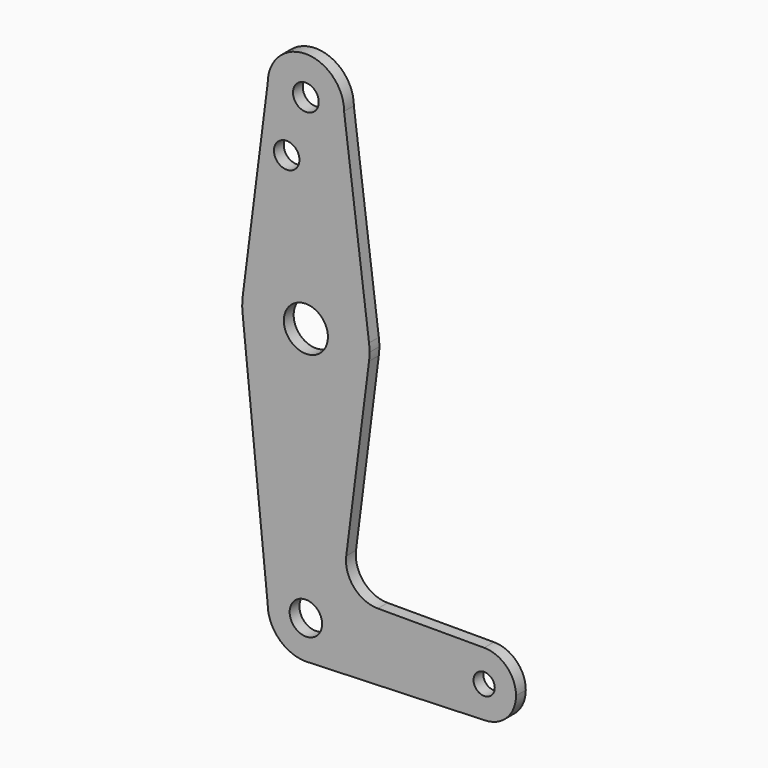
from build123d import *

# Parameters (mm, degrees)
F0_R     = 3.21148
F0_R_2   = 3.175
F0_R_3   = 5.490597
F0_R_4   = 4.051026
F0_R_5   = 2.645556
F1_DEPTH = 3.048


with BuildPart() as f1:
    # F0 (on Front) → F1 (new body)
    with BuildSketch(Plane.XZ):
        with BuildLine():
            ThreePointArc((-9.525, 114.3), (0, 104.775), (9.525, 114.3))
            ThreePointArc((9.525, 114.3), (0, 123.825), (-9.525, 114.3))
        make_face()
        with Locations((0, 114.3)):
            Circle(F0_R, mode=Mode.SUBTRACT)
        with BuildLine():
            Line((15.747457, 65.508289), (9.525, 114.3))
            ThreePointArc((9.525, 114.3), (0, 104.775), (-9.525, 114.3))
            Line((-9.525, 114.3), (-15.747457, 65.508289))
            ThreePointArc((-15.747457, 65.508289), (0, 79.375), (15.747457, 65.508289))
        make_face()
        with Locations((-4.784607, 100.0252)):
            Circle(F0_R_2, mode=Mode.SUBTRACT)
        with BuildLine():
            ThreePointArc((15.875, 63.5), (15.843082, 64.506168), (15.747457, 65.508289))
            ThreePointArc((15.747457, 65.508289), (0, 79.375), (-15.747457, 65.508289))
            ThreePointArc((-15.747457, 65.508289), (-15.873668, 63.705667), (-15.794203, 61.90038))
            ThreePointArc((-15.794203, 61.90038), (-0.205667, 47.626332), (15.747457, 61.491711))
            ThreePointArc((15.747457, 61.491711), (15.843082, 62.493832), (15.875, 63.5))
        make_face()
        with Locations((0, 63.5)):
            Circle(F0_R_3, mode=Mode.SUBTRACT)
        with BuildLine():
            ThreePointArc((15.747457, 61.491711), (-0.205667, 47.626332), (-15.794203, 61.90038))
            Line((-15.794203, 61.90038), (-9.525, 0))
            ThreePointArc((-9.525, 0), (0, 9.525), (9.525, 0))
            ThreePointArc((9.525, 0), (6.970557, -6.491299), (0.677344, -9.500886))
            Line((0.677344, -9.500886), (44.732405, -7.932475))
            ThreePointArc((44.732405, -7.932475), (36.513756, -0.141225), (44.45, 7.9375))
            Line((44.45, 7.9375), (17.946122, 7.9375))
            ThreePointArc((17.946122, 7.9375), (11.979481, 10.633666), (10.059795, 16.893451))
            Line((10.059795, 16.893451), (15.747457, 61.491711))
        make_face()
        with BuildLine():
            ThreePointArc((9.525, 0), (0, 9.525), (-9.525, 0))
            ThreePointArc((-9.525, 0), (-6.735192, -6.735192), (0, -9.525))
            Line((0, -9.525), (0.677344, -9.500886))
            ThreePointArc((0.677344, -9.500886), (6.970557, -6.491299), (9.525, 0))
        make_face()
        Circle(F0_R_4, mode=Mode.SUBTRACT)
        with BuildLine():
            Line((0.677344, -9.500886), (0, -9.525))
            ThreePointArc((0, -9.525), (0.338886, -9.51897), (0.677344, -9.500886))
        make_face()
        with BuildLine():
            ThreePointArc((52.3875, 0), (50.06266, 5.61266), (44.45, 7.9375))
            ThreePointArc((44.45, 7.9375), (36.513756, -0.141225), (44.732405, -7.932475))
            ThreePointArc((44.732405, -7.932475), (50.161633, -5.51191), (52.3875, 0))
        make_face()
        with Locations((44.45, 0)):
            Circle(F0_R_5, mode=Mode.SUBTRACT)
    extrude(amount=F1_DEPTH)


solid = f1.part
